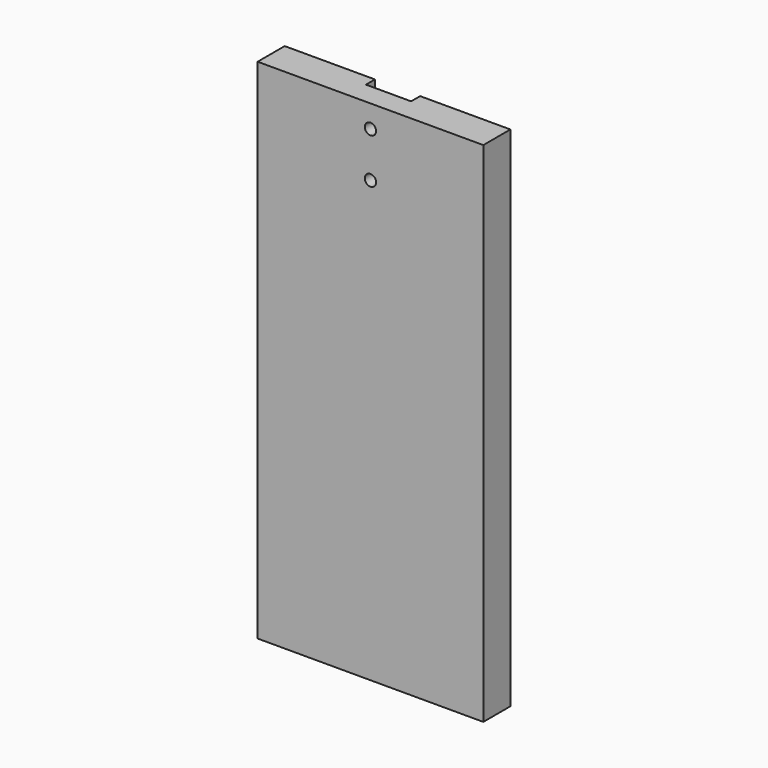
from build123d import *

# Parameters (mm, degrees)
F0_W     = 127
F0_H     = 285.75
F1_DEPTH = 19.05
F3_DEPTH = 6.35
F4_R     = 3.175
F5_DEPTH = 12.701


with BuildPart() as f1:
    # F0 (on Front) → F1 (new body)
    with BuildSketch(Plane.XZ):
        Rectangle(F0_W, F0_H)
    extrude(amount=F1_DEPTH)

    # F2 (on face) → F3 (cut)
    with BuildSketch(Plane(origin=(0, 0, 0), x_dir=(-1, 0, 0), z_dir=(0, 1, 0))):
        with BuildLine():
            Line((12.7, 104.775), (12.7, 142.875))
            ThreePointArc((12.7, 142.875), (0, 155.575), (-12.7, 142.875))
            Line((-12.7, 142.875), (-12.7, 104.775))
            ThreePointArc((-12.7, 104.775), (0, 92.075), (12.7, 104.775))
        make_face()
    extrude(amount=-F3_DEPTH, mode=Mode.SUBTRACT)

    # F4 (on face) → F5 (cut, through all)
    with BuildSketch(Plane(origin=(0, -6.35, 0), x_dir=(-1, 0, 0), z_dir=(0, 1, 0))):
        with Locations((0, 104.775)):
            Circle(F4_R)
        with Locations((0, 130.175)):
            Circle(F4_R)
    extrude(amount=-F5_DEPTH, mode=Mode.SUBTRACT)


solid = f1.part
